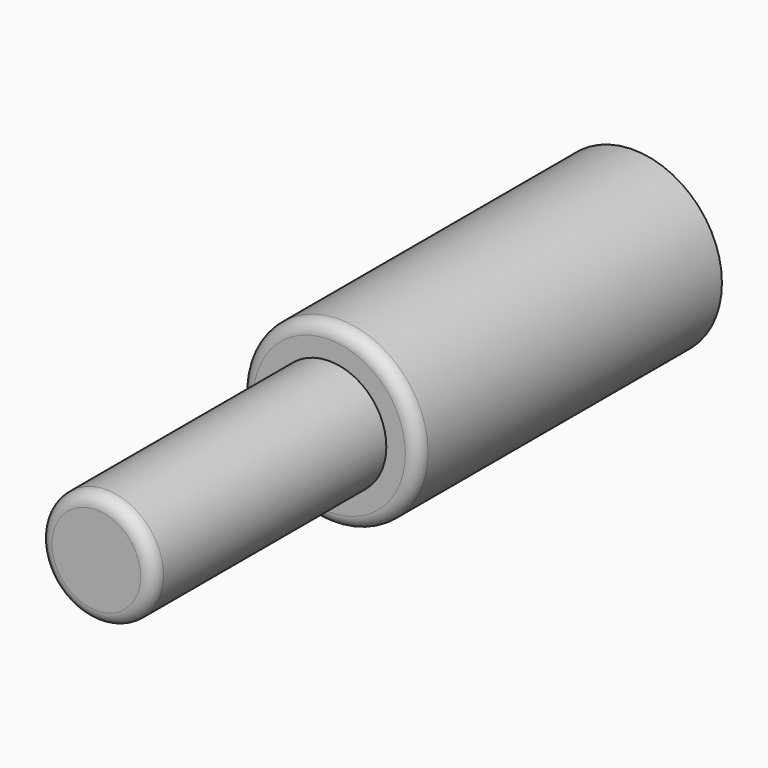
from build123d import *

# Parameters (mm, degrees)
F0_R     = 7
F0_R_2   = 4.5
F1_DEPTH = 30
F2_DEPTH = 23
F3_R     = 1


with BuildPart() as f1:
    # F0 (on Front) → F1 (new body)
    with BuildSketch(Plane.XZ):
        Circle(F0_R)
        Circle(F0_R_2, mode=Mode.SUBTRACT)
        Circle(F0_R_2)
    extrude(amount=-F1_DEPTH)

    # F0 (on Front) → F2 (join)
    with BuildSketch(Plane.XZ):
        Circle(F0_R_2)
    extrude(amount=F2_DEPTH)

    # F3
    f3_edges = [f1.edges().sort_by_distance(p)[0] for p in [
        (-4.5, -23, 0),
        (-7, 0, 0),
    ]]
    fillet(f3_edges, radius=F3_R)


solid = f1.part
